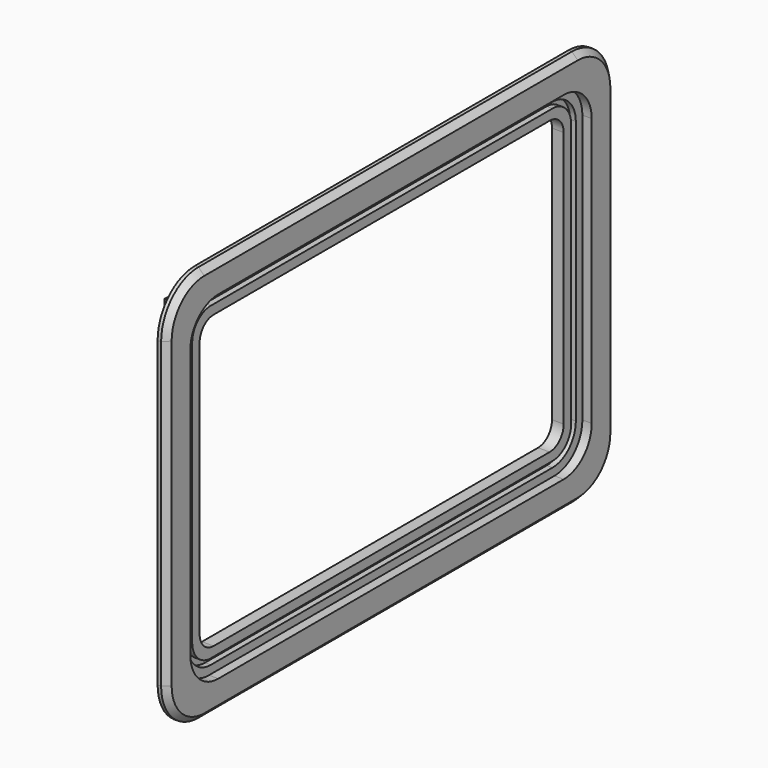
from build123d import *

# Parameters (mm, degrees)
SKETCH_W     = 440
SKETCH_H     = 300
PAD_DEPTH    = 10
PAD001_DEPTH = 8
POCKET_DEPTH = 5
CHAMFER_SIZE = 5


with BuildPart() as part:
    # Sketch → Pad (new body)
    with BuildSketch(Plane.YZ):
        Rectangle(SKETCH_W, SKETCH_H)
        with BuildLine():
            Line((-195, 110), (-195, -110))
            ThreePointArc((-195, -110), (-190.606602, -120.606602), (-180, -125))
            Line((-180, -125), (180, -125))
            ThreePointArc((180, -125), (190.606602, -120.606602), (195, -110))
            Line((195, -110), (195, 110))
            ThreePointArc((195, 110), (190.606602, 120.606602), (180, 125))
            Line((180, 125), (-180, 125))
            ThreePointArc((-180, 125), (-190.606602, 120.606602), (-195, 110))
        make_face(mode=Mode.SUBTRACT)
    extrude(amount=PAD_DEPTH)

    # Sketch001 (on Face14 of Pad) → Pad001 (join)
    with BuildSketch(Plane.YZ.offset(10)):
        with BuildLine():
            Line((-240, 130), (-240, -130))
            ThreePointArc((-240, -130), (-228.284271, -158.284271), (-200, -170))
            Line((-200, -170), (200, -170))
            ThreePointArc((200, -170), (228.284271, -158.284271), (240, -130))
            Line((240, -130), (240, 130))
            ThreePointArc((240, 130), (228.284271, 158.284271), (200, 170))
            Line((200, 170), (-200, 170))
            ThreePointArc((-200, 170), (-228.284271, 158.284271), (-240, 130))
        make_face()
        with BuildLine():
            Line((-215, 115), (-215, -115))
            ThreePointArc((-215, -115), (-206.213203, -136.213203), (-185, -145))
            Line((-185, -145), (185, -145))
            ThreePointArc((185, -145), (206.213203, -136.213203), (215, -115))
            Line((215, -115), (215, 115))
            ThreePointArc((215, 115), (206.213203, 136.213203), (185, 145))
            Line((185, 145), (-185, 145))
            ThreePointArc((-185, 145), (-206.213203, 136.213203), (-215, 115))
        make_face(mode=Mode.SUBTRACT)
    extrude(amount=PAD001_DEPTH)

    # Sketch002 (on Face23 of Pad001) → Pocket (cut)
    with BuildSketch(Plane.YZ.offset(10)):
        with BuildLine():
            Line((-208, 113), (-208, -113))
            ThreePointArc((-208, -113), (-200.67767, -130.67767), (-183, -138))
            Line((-183, -138), (183, -138))
            ThreePointArc((183, -138), (200.67767, -130.67767), (208, -113))
            Line((208, -113), (208, 113))
            ThreePointArc((208, 113), (200.67767, 130.67767), (183, 138))
            Line((183, 138), (-183, 138))
            ThreePointArc((-183, 138), (-200.67767, 130.67767), (-208, 113))
        make_face()
        with BuildLine():
            Line((-203, 113), (-203, -113))
            ThreePointArc((-203, -113), (-197.142136, -127.142136), (-183, -133))
            Line((-183, -133), (183, -133))
            ThreePointArc((183, -133), (197.142136, -127.142136), (203, -113))
            Line((203, -113), (203, 113))
            ThreePointArc((203, 113), (197.142136, 127.142136), (183, 133))
            Line((183, 133), (-183, 133))
            ThreePointArc((-183, 133), (-197.142136, 127.142136), (-203, 113))
        make_face(mode=Mode.SUBTRACT)
    extrude(amount=-POCKET_DEPTH, mode=Mode.SUBTRACT)

    # Chamfer
    chamfer_edges = [part.edges().sort_by_distance(p)[0] for p in [
        (18, -240, 0),
        (18, -228.284271, 158.284271),
        (18, 0, 170),
        (18, -228.284271, -158.284271),
        (18, 0, -170),
        (18, 240, 0),
        (18, 228.284271, -158.284271),
        (18, 228.284271, 158.284271),
    ]]
    chamfer(chamfer_edges, length=CHAMFER_SIZE)


solid = part.part
